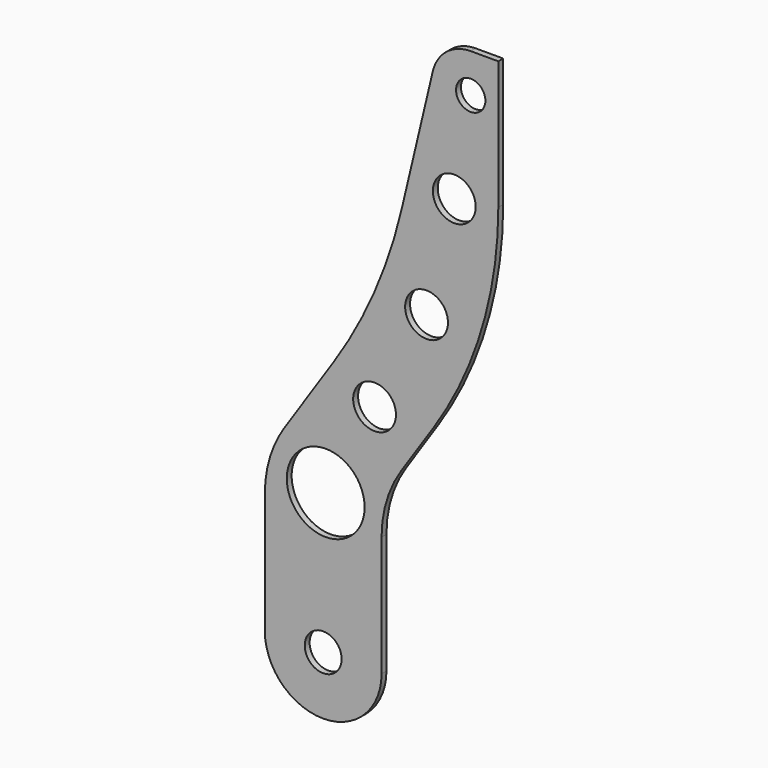
from build123d import *

# Parameters (mm, degrees)
F0_R     = 9.489029
F0_R_2   = 20
F0_R_3   = 11
F0_R_4   = 7.533536
F1_DEPTH = 3.139175


with BuildPart() as f1:
    # F0 (on Front) → F1 (new body)
    with BuildSketch(Plane.XZ):
        with BuildLine():
            ThreePointArc((30, 0), (51.213203, 8.786797), (60, 30))
            Line((60, 30), (60, 91.833462))
            ThreePointArc((60, 91.833462), (62.574478, 109.220511), (70.076982, 125.115474))
            Line((70.076982, 125.115474), (86.410059, 149.615088))
            ThreePointArc((86.410059, 149.615088), (111.418405, 202.598298), (120, 260.555128))
            Line((120, 260.555128), (120, 326.632202))
            Line((120, 326.632202), (105.815454, 326.632202))
            ThreePointArc((105.815454, 326.632202), (93.410018, 322.319941), (86.35413, 311.242717))
            Line((86.35413, 311.242717), (70.349825, 243.687371))
            ThreePointArc((70.349825, 243.687371), (56.332544, 201.595344), (35.095844, 162.643766))
            Line((35.095844, 162.643766), (10.076982, 125.115474))
            ThreePointArc((10.076982, 125.115474), (5.908036, 117.796116), (2.805199, 109.965056))
            ThreePointArc((2.805199, 109.965056), (0.705447, 101.007117), (0, 91.833462))
            Line((0, 91.833462), (0, 30))
            ThreePointArc((0, 30), (8.786797, 8.786797), (30, 0))
        make_face()
        with Locations((30, 30)):
            Circle(F0_R, mode=Mode.SUBTRACT)
        with Locations((31.287239, 102.52957)):
            Circle(F0_R_2, mode=Mode.SUBTRACT)
        with Locations((56.410059, 149.615088)):
            Circle(F0_R_3, mode=Mode.SUBTRACT)
        with Locations((83.12216, 200)):
            Circle(F0_R_3, mode=Mode.SUBTRACT)
        with Locations((97.375214, 257.037967)):
            Circle(F0_R_3, mode=Mode.SUBTRACT)
        with Locations((105.815454, 306.632202)):
            Circle(F0_R_4, mode=Mode.SUBTRACT)
    extrude(amount=F1_DEPTH)


solid = f1.part
